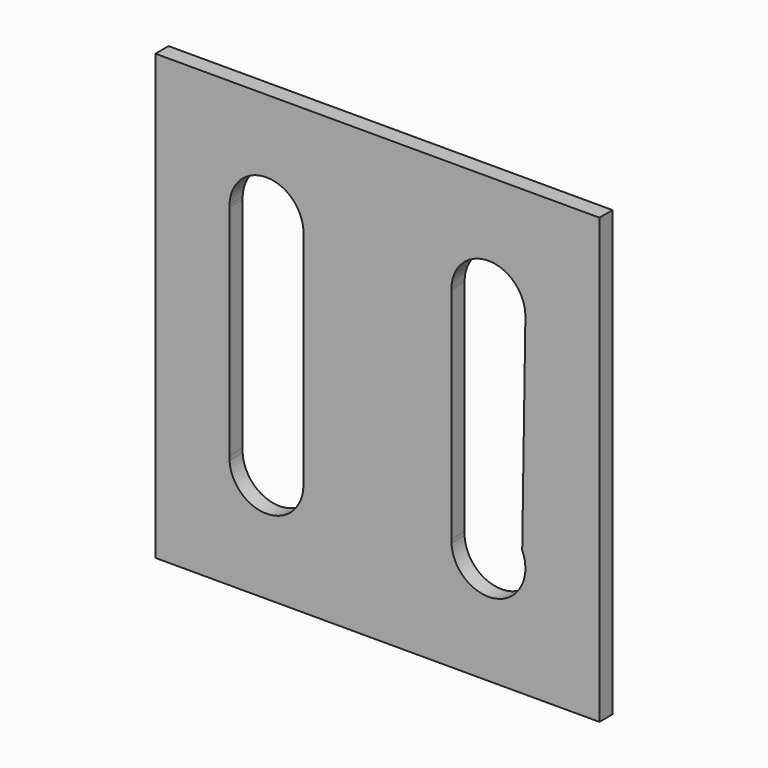
from build123d import *

# Parameters (mm, degrees)
F0_W     = 343.231324
F0_H     = 343.231324
F1_DEPTH = 12.7


with BuildPart() as f1:
    # F0 (on Front) → F1 (new body)
    with BuildSketch(Plane.XZ):
        Rectangle(F0_W, F0_H)
        with BuildLine():
            ThreePointArc((-114.373991, 87.598695), (-86.679587, 115.357074), (-57.301, 89.38774))
            Line((-57.301, 89.38774), (-57.223991, -84.985509))
            ThreePointArc((-57.223991, -84.985509), (-84.931642, -113.586746), (-114.373991, -86.774572))
            ThreePointArc((-114.373991, -86.774572), (-114.429209, -84.998141), (-114.373991, -83.22171))
            Line((-114.373991, -83.22171), (-114.373991, 85.938318))
            ThreePointArc((-114.373991, 85.938318), (-114.386042, 86.768506), (-114.373991, 87.598695))
        make_face(mode=Mode.SUBTRACT)
        with BuildLine():
            ThreePointArc((114.411461, 86.554876), (114.417905, 85.362723), (114.374665, 84.171337))
            Line((114.374665, 84.171337), (111.931052, -74.1199))
            ThreePointArc((111.931052, -74.1199), (114.392674, -86.177603), (111.560034, -98.153576))
            ThreePointArc((111.560034, -98.153576), (80.104585, -113.767264), (57.224665, -87.126286))
            ThreePointArc((57.224665, -87.126286), (57.190861, -85.736104), (57.224665, -84.345923))
            Line((57.224665, -84.345923), (57.224665, 85.103969))
            ThreePointArc((57.224665, 85.103969), (57.216092, 85.804222), (57.224665, 86.504474))
            ThreePointArc((57.224665, 86.504474), (85.793493, 114.406821), (114.411461, 86.554876))
        make_face(mode=Mode.SUBTRACT)
    extrude(amount=F1_DEPTH)


solid = f1.part
